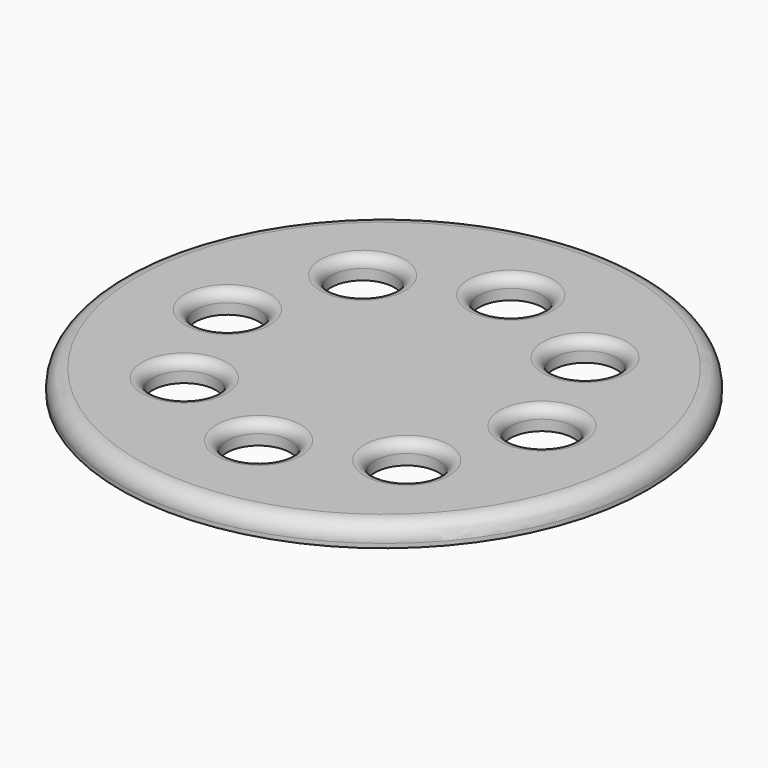
from build123d import *

# Parameters (mm, degrees)
F1_R     = 125
F1_R_2   = 15
F2_DEPTH = 10
F3_R     = 8
F4_R     = 5


with BuildPart() as f2:
    # F1 (on face) → F2 (new body)
    with BuildSketch(Plane.XY):
        with Locations((0, 30.950882)):
            Circle(F1_R)
        with Locations((-0.156163, -43.14509)):
            Circle(F1_R_2, mode=Mode.SUBTRACT)
        with Locations((-52.84668, -21.255278)):
            Circle(F1_R_2, mode=Mode.SUBTRACT)
        with Locations((52.580093, -21.365702)):
            Circle(F1_R_2, mode=Mode.SUBTRACT)
        with Locations((-74.626067, 31.480977)):
            Circle(F1_R_2, mode=Mode.SUBTRACT)
        with Locations((-52.736256, 84.171494)):
            Circle(F1_R_2, mode=Mode.SUBTRACT)
        with Locations((52.690517, 84.06107)):
            Circle(F1_R_2, mode=Mode.SUBTRACT)
        with Locations((74.469904, 31.324814)):
            Circle(F1_R_2, mode=Mode.SUBTRACT)
        with Locations((0, 105.950882)):
            Circle(F1_R_2, mode=Mode.SUBTRACT)
    extrude(amount=F2_DEPTH)

    # F3
    f3_edges = [f2.edges().sort_by_distance(p)[0] for p in [
        (-125, 30.950882, 10),
    ]]
    fillet(f3_edges, radius=F3_R)

    # F4
    f4_edges = [f2.edges().sort_by_distance(p)[0] for p in [
        (59.469904, 31.324814, 10),
        (37.580093, -21.365702, 10),
        (-15.156163, -43.14509, 10),
        (-67.84668, -21.255278, 10),
        (-89.626067, 31.480977, 10),
        (-67.736256, 84.171494, 10),
        (-15, 105.950882, 10),
        (37.690517, 84.06107, 10),
    ]]
    fillet(f4_edges, radius=F4_R)


solid = f2.part
